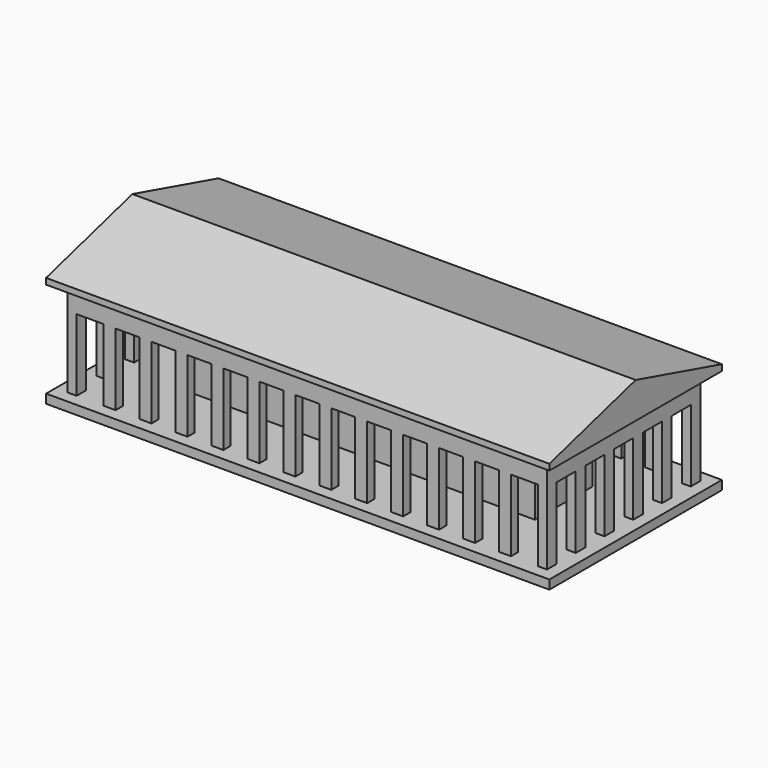
from build123d import *

# Parameters (mm, degrees)
F0_W     = 266.7
F0_H     = 114.3
F1_DEPTH = 4.7625
F2_W     = 4.7625
F2_H     = 6.35
F2_W_2   = 6.35
F2_H_2   = 4.7625
F3_DEPTH = 38.1
F5_DEPTH = 12.7
F6_W     = 4.7625
F6_H     = 6.35
F6_W_2   = 6.35
F6_H_2   = 4.7625
F6_W_3   = 190.5
F6_H_3   = 38.1
F6_W_4   = 180.975
F6_H_4   = 28.575
F7_DEPTH = 50.8
F9_DEPTH = 266.7


with BuildPart() as f1:
    # F0 (on Top) → F1 (new body)
    with BuildSketch(Plane.XY):
        Rectangle(F0_W, F0_H)
    extrude(amount=F1_DEPTH)

    # F2 (on face) → F3 (join)
    with BuildSketch(Plane.XY.offset(4.7625)):
        with Locations((124.61875, -47.625)):
            Rectangle(F2_W, F2_H)
        with Locations((124.61875, 9.525)):
            Rectangle(F2_W, F2_H)
        with Locations((124.61875, 28.575)):
            Rectangle(F2_W, F2_H)
        with Locations((124.61875, 28.575)):
            Rectangle(F2_W, F2_H)
        with Locations((124.61875, -9.525)):
            Rectangle(F2_W, F2_H)
        with Locations((124.61875, -28.575)):
            Rectangle(F2_W, F2_H)
        with Locations((-124.61875, 47.625)):
            Rectangle(F2_W, F2_H)
        with Locations((-104.775, 48.41875)):
            Rectangle(F2_W_2, F2_H_2)
        with Locations((-85.725, 48.41875)):
            Rectangle(F2_W_2, F2_H_2)
        with Locations((-66.675, 48.41875)):
            Rectangle(F2_W_2, F2_H_2)
        with Locations((-47.625, 48.41875)):
            Rectangle(F2_W_2, F2_H_2)
        with Locations((-28.575, 48.41875)):
            Rectangle(F2_W_2, F2_H_2)
        with Locations((9.525, 48.41875)):
            Rectangle(F2_W_2, F2_H_2)
        with Locations((28.575, 48.41875)):
            Rectangle(F2_W_2, F2_H_2)
        with Locations((47.625, 48.41875)):
            Rectangle(F2_W_2, F2_H_2)
        with Locations((66.675, 48.41875)):
            Rectangle(F2_W_2, F2_H_2)
        with Locations((85.725, 48.41875)):
            Rectangle(F2_W_2, F2_H_2)
        with Locations((104.775, 48.41875)):
            Rectangle(F2_W_2, F2_H_2)
        with Locations((124.61875, 47.625)):
            Rectangle(F2_W, F2_H)
        with Locations((-9.525, 48.41875)):
            Rectangle(F2_W_2, F2_H_2)
        with Locations((-124.61875, 28.575)):
            Rectangle(F2_W, F2_H)
        with Locations((-124.61875, 9.525)):
            Rectangle(F2_W, F2_H)
        with Locations((-124.61875, -9.525)):
            Rectangle(F2_W, F2_H)
        with Locations((-124.61875, -47.625)):
            Rectangle(F2_W, F2_H)
        with Locations((-104.775, -48.41875)):
            Rectangle(F2_W_2, F2_H_2)
        with Locations((-85.725, -48.41875)):
            Rectangle(F2_W_2, F2_H_2)
        with Locations((-124.61875, -28.575)):
            Rectangle(F2_W, F2_H)
        with Locations((-66.675, -48.41875)):
            Rectangle(F2_W_2, F2_H_2)
        with Locations((-47.625, -48.41875)):
            Rectangle(F2_W_2, F2_H_2)
        with Locations((-28.575, -48.41875)):
            Rectangle(F2_W_2, F2_H_2)
        with Locations((-9.525, -48.41875)):
            Rectangle(F2_W_2, F2_H_2)
        with Locations((9.525, -48.41875)):
            Rectangle(F2_W_2, F2_H_2)
        with Locations((28.575, -48.41875)):
            Rectangle(F2_W_2, F2_H_2)
        with Locations((47.625, -48.41875)):
            Rectangle(F2_W_2, F2_H_2)
        with Locations((66.675, -48.41875)):
            Rectangle(F2_W_2, F2_H_2)
        with Locations((85.725, -48.41875)):
            Rectangle(F2_W_2, F2_H_2)
        with Locations((104.775, -48.41875)):
            Rectangle(F2_W_2, F2_H_2)
    extrude(amount=F3_DEPTH)

    # F4 (on face) → F5 (join)
    with BuildSketch(Plane.XY.offset(42.8625)):
        Polygon((127, -50.8), (127, 50.8), (122.2375, 50.8), (122.2375, 46.0375), (122.2375, 44.45), (122.2375, -46.0375), (-122.2375, -46.0375), (-122.2375, -50.8), align=None)
        Polygon((122.2375, 46.0375), (122.2375, 50.8), (-127, 50.8), (-127, -50.8), (-122.2375, -50.8), (-122.2375, -46.0375), (-122.2375, -44.45), (-122.2375, 46.0375), align=None)
    extrude(amount=F5_DEPTH)

    # F6 (on face) → F7 (join)
    with BuildSketch(Plane.XY.offset(4.7625)):
        with Locations((124.61875, 28.575)):
            Rectangle(F6_W, F6_H)
        with Locations((124.61875, 9.525)):
            Rectangle(F6_W, F6_H)
        with Locations((124.61875, -9.525)):
            Rectangle(F6_W, F6_H)
        with Locations((124.61875, -28.575)):
            Rectangle(F6_W, F6_H)
        with Locations((124.61875, 47.625)):
            Rectangle(F6_W, F6_H)
        with Locations((124.61875, -47.625)):
            Rectangle(F6_W, F6_H)
        with Locations((-124.61875, -47.625)):
            Rectangle(F6_W, F6_H)
        with Locations((9.525, -48.41875)):
            Rectangle(F6_W_2, F6_H_2)
        with Locations((-66.675, -48.41875)):
            Rectangle(F6_W_2, F6_H_2)
        with Locations((47.625, -48.41875)):
            Rectangle(F6_W_2, F6_H_2)
        with Locations((-28.575, -48.41875)):
            Rectangle(F6_W_2, F6_H_2)
        with Locations((-104.775, -48.41875)):
            Rectangle(F6_W_2, F6_H_2)
        with Locations((-85.725, -48.41875)):
            Rectangle(F6_W_2, F6_H_2)
        with Locations((-9.525, -48.41875)):
            Rectangle(F6_W_2, F6_H_2)
        with Locations((66.675, -48.41875)):
            Rectangle(F6_W_2, F6_H_2)
        with Locations((85.725, -48.41875)):
            Rectangle(F6_W_2, F6_H_2)
        with Locations((104.775, -48.41875)):
            Rectangle(F6_W_2, F6_H_2)
        with Locations((-47.625, -48.41875)):
            Rectangle(F6_W_2, F6_H_2)
        with Locations((28.575, -48.41875)):
            Rectangle(F6_W_2, F6_H_2)
        with Locations((-124.61875, 28.575)):
            Rectangle(F6_W, F6_H)
        with Locations((-124.61875, 9.525)):
            Rectangle(F6_W, F6_H)
        with Locations((-124.61875, -9.525)):
            Rectangle(F6_W, F6_H)
        with Locations((-124.61875, -28.575)):
            Rectangle(F6_W, F6_H)
        with Locations((-124.61875, 47.625)):
            Rectangle(F6_W, F6_H)
        with Locations((104.775, 48.41875)):
            Rectangle(F6_W_2, F6_H_2)
        with Locations((47.625, 48.41875)):
            Rectangle(F6_W_2, F6_H_2)
        with Locations((85.725, 48.41875)):
            Rectangle(F6_W_2, F6_H_2)
        with Locations((66.675, 48.41875)):
            Rectangle(F6_W_2, F6_H_2)
        with Locations((28.575, 48.41875)):
            Rectangle(F6_W_2, F6_H_2)
        with Locations((9.525, 48.41875)):
            Rectangle(F6_W_2, F6_H_2)
        with Locations((-9.525, 48.41875)):
            Rectangle(F6_W_2, F6_H_2)
        with Locations((-28.575, 48.41875)):
            Rectangle(F6_W_2, F6_H_2)
        with Locations((-47.625, 48.41875)):
            Rectangle(F6_W_2, F6_H_2)
        with Locations((-66.675, 48.41875)):
            Rectangle(F6_W_2, F6_H_2)
        with Locations((-85.725, 48.41875)):
            Rectangle(F6_W_2, F6_H_2)
        with Locations((-104.775, 48.41875)):
            Rectangle(F6_W_2, F6_H_2)
        Rectangle(F6_W_3, F6_H_3)
        Rectangle(F6_W_4, F6_H_4, mode=Mode.SUBTRACT)
    extrude(amount=F7_DEPTH)

    # F8 (on face) → F9 (join, through all)
    with BuildSketch(Plane.YZ.offset(133.35)):
        Polygon((-57.15, 55.5625), (-50.8, 55.5625), (50.8, 55.5625), (57.15, 55.5625), (57.15, 58.7375), (0, 74.6125), (-57.15, 58.7375), align=None)
    extrude(amount=-F9_DEPTH)


solid = f1.part
